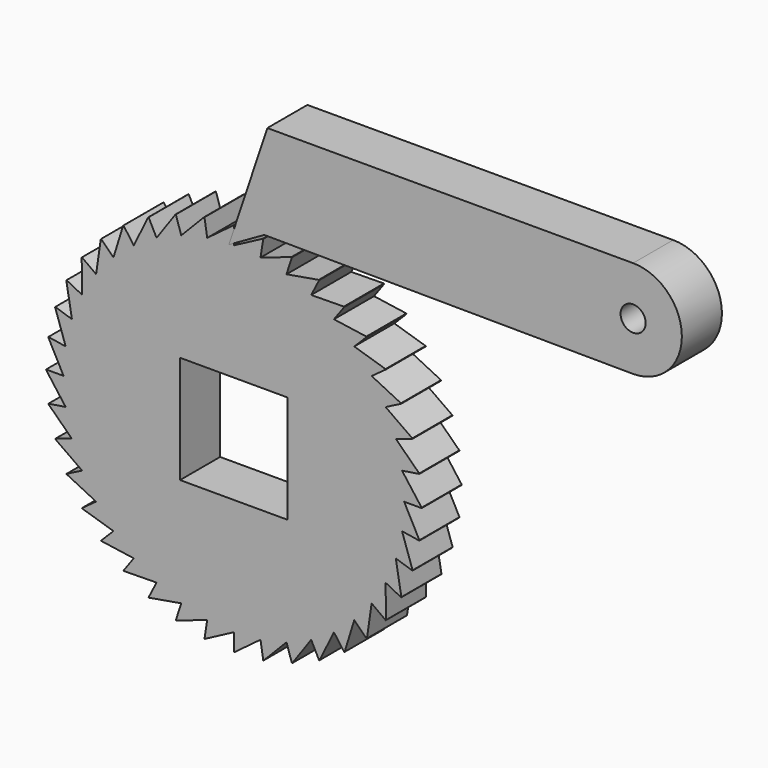
from build123d import *

# Parameters (mm, degrees)
F0_R     = 37.5
F0_W     = 21.5
F0_H     = 21.5
F1_DEPTH = 10
F3_DEPTH = 25
F4_R     = 2.5
F5_DEPTH = 10


with BuildPart() as f1:
    # F0 (on Front) → F1 (new body)
    with BuildSketch(Plane.XZ):
        Circle(F0_R)
        Rectangle(F0_W, F0_H, mode=Mode.SUBTRACT)
    extrude(amount=F1_DEPTH)

    # F2 (on Front) → F3 (intersect)
    with BuildSketch(Plane.XZ):
        Polygon((0, 34.007777), (0, 37.56503), (-5.319988, 33.589084), (-5.876465, 37.102542), (-10.508981, 32.343317), (-11.608233, 35.726467), (-15.439207, 30.301151), (-17.054167, 33.470687), (-19.98927, 27.512869), (-22.080171, 30.390748), (-24.047129, 24.047129), (-26.562488, 26.562488), (-27.512869, 19.98927), (-30.390748, 22.080171), (-30.301151, 15.439207), (-33.470687, 17.054167), (-32.343317, 10.508981), (-35.726467, 11.608233), (-33.589084, 5.319988), (-37.102542, 5.876465), (-34.007777, 0), (-37.56503, 0), (-33.589084, -5.319988), (-37.102542, -5.876465), (-32.343317, -10.508981), (-35.726467, -11.608233), (-30.301151, -15.439207), (-33.470687, -17.054167), (-27.512869, -19.98927), (-30.390748, -22.080171), (-24.047129, -24.047129), (-26.562488, -26.562488), (-19.98927, -27.512869), (-22.080171, -30.390748), (-15.439207, -30.301151), (-17.054167, -33.470687), (-10.508981, -32.343317), (-11.608233, -35.726467), (-5.319988, -33.589084), (-5.876465, -37.102542), (0, -34.007777), (0, -37.56503), (5.319988, -33.589084), (5.876465, -37.102542), (10.508981, -32.343317), (11.608233, -35.726467), (15.439207, -30.301151), (17.054167, -33.470687), (19.98927, -27.512869), (22.080171, -30.390748), (24.047129, -24.047129), (26.562488, -26.562488), (27.512869, -19.98927), (30.390748, -22.080171), (30.301151, -15.439207), (33.470687, -17.054167), (32.343317, -10.508981), (35.726467, -11.608233), (33.589084, -5.319988), (37.102542, -5.876465), (34.007777, 0), (37.56503, 0), (33.589084, 5.319988), (37.102542, 5.876465), (32.343317, 10.508981), (35.726467, 11.608233), (30.301151, 15.439207), (33.470687, 17.054167), (27.512869, 19.98927), (30.390748, 22.080171), (24.047129, 24.047129), (26.562488, 26.562488), (19.98927, 27.512869), (22.080171, 30.390748), (15.439207, 30.301151), (17.054167, 33.470687), (10.508981, 32.343317), (11.608233, 35.726467), (5.319988, 33.589084), (5.876465, 37.102542), align=None)
    extrude(amount=F3_DEPTH, mode=Mode.INTERSECT)


with BuildPart() as f5:
    # F4 (on Front) → F5 (new body)
    with BuildSketch(Plane.XZ):
        with BuildLine():
            Line((8.696713, 56.809544), (6.685412, 56.809544))
            Line((6.685412, 56.809544), (-1.002478, 33.799573))
            Line((-1.002478, 33.799573), (6.08512, 37.824191))
            Line((6.08512, 37.824191), (79.727527, 37.331889))
            ThreePointArc((79.727527, 37.331889), (89.466354, 47.070717), (79.727527, 56.809544))
            Line((79.727527, 56.809544), (8.696713, 56.809544))
        make_face()
        with Locations((79.727527, 47.070717)):
            Circle(F4_R, mode=Mode.SUBTRACT)
    extrude(amount=F5_DEPTH)


solid = Compound([f1.part, f5.part])
